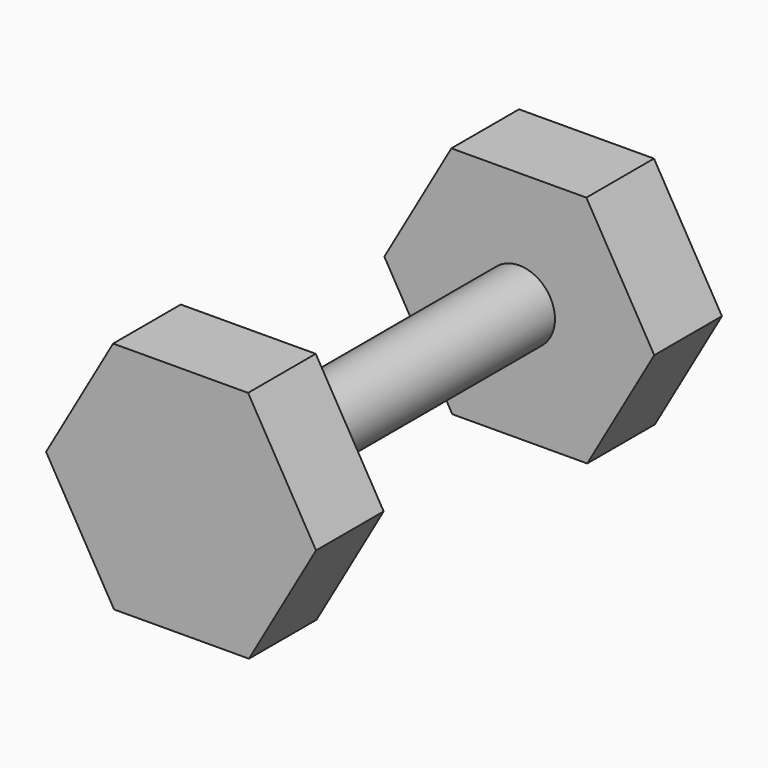
from build123d import *

# Parameters (mm, degrees)
F0_R     = 10.71035
F1_DEPTH = 50.8
F3_DEPTH = 25.4


with BuildPart() as f1:
    # F0 (on Front) → F1 (new body)
    with BuildSketch(Plane.XZ):
        Circle(F0_R)
    extrude(amount=F1_DEPTH)

    # F2 (on face) → F3 (join)
    with BuildSketch(Plane.XZ.offset(50.8)):
        Polygon((20.402551, -35.032415), (40.540237, 0.15292), (20.137686, 35.185335), (-20.402551, 35.032415), (-40.540237, -0.15292), (-20.137686, -35.185335), align=None)
    extrude(amount=F3_DEPTH)

    # F4: F1 across plane


with BuildPart() as f1_1:
    add(f1.part)
    add(f1.part.mirror(Plane.XZ))


solid = f1_1.part
